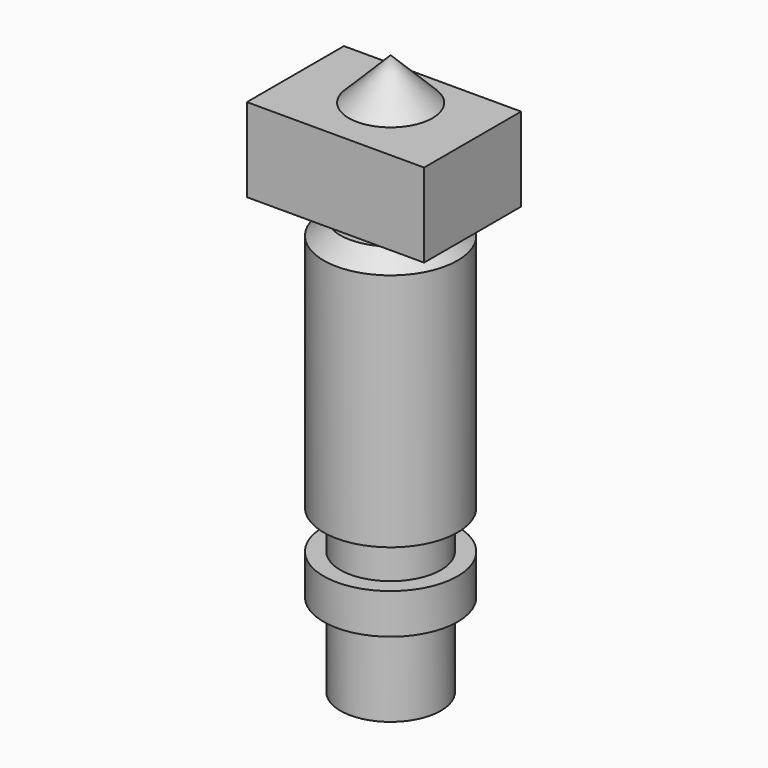
from build123d import *

# Parameters (mm, degrees)
F0_R      = 8
F1_DEPTH  = 4.8
F2_R      = 6
F3_DEPTH  = 4.6
F4_R      = 8
F5_DEPTH  = 30.6
F6_SIZE   = 2
F7_R      = 3
F8_DEPTH  = 2
F9_W      = 21.1684573442
F9_H      = 14.4873037934
F10_DEPTH = 10
F11_R     = 5
F12_DEPTH = 5
F12_TAPER = 45
F13_R     = 6
F14_DEPTH = 10


with BuildPart() as f1:
    # F0 (on Top) → F1 (new body)
    with BuildSketch(Plane.XY):
        Circle(F0_R)
    extrude(amount=F1_DEPTH)

    # F2 (on face) → F3 (join)
    with BuildSketch(Plane.XY.offset(4.8)):
        Circle(F2_R)
    extrude(amount=F3_DEPTH)

    # F4 (on face) → F5 (join)
    with BuildSketch(Plane.XY.offset(9.4)):
        Circle(F4_R)
    extrude(amount=F5_DEPTH)

    # F6
    f6_edges = [f1.edges().sort_by_distance(p)[0] for p in [
        (-8, 0, 40),
    ]]
    chamfer(f6_edges, length=F6_SIZE)

    # F7 (on face) → F8 (join)
    with BuildSketch(Plane.XY.offset(40)):
        Circle(F7_R)
    extrude(amount=F8_DEPTH)

    # F9 (on face) → F10 (join)
    with BuildSketch(Plane.XY.offset(42)):
        with Locations((0.0396473333, -1.0394603014)):
            Rectangle(F9_W, F9_H)
    extrude(amount=F10_DEPTH)

    # F11 (on face) → F12 (join)
    with BuildSketch(Plane.XY.offset(52)):
        Circle(F11_R)
    extrude(amount=F12_DEPTH, taper=F12_TAPER)

    # F13 (on face) → F14 (join)
    with BuildSketch(Plane(origin=(0, 0, 0), x_dir=(1, 0, 0), z_dir=(0, 0, -1))):
        Circle(F13_R)
    extrude(amount=F14_DEPTH)


solid = f1.part
